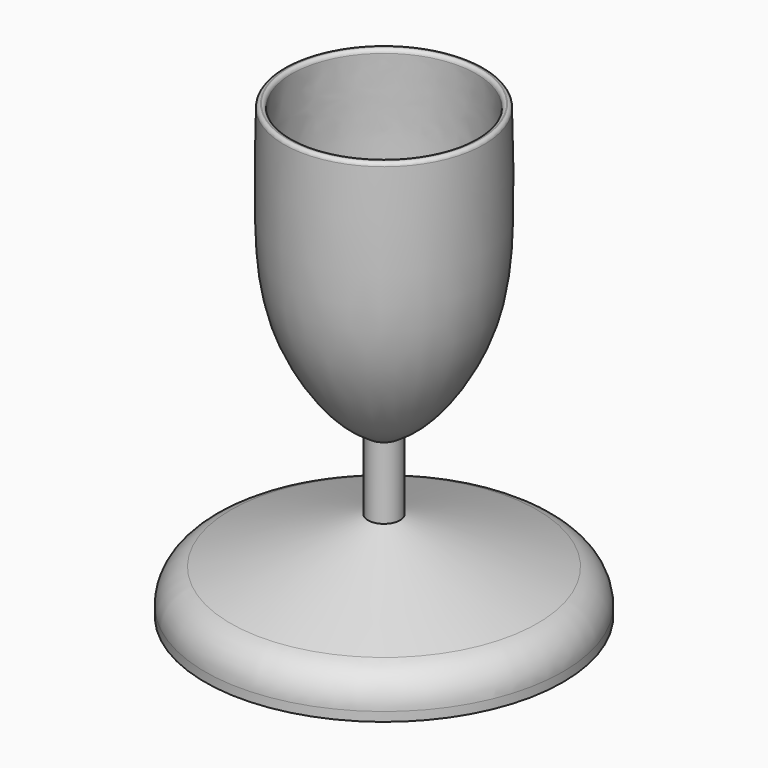
from build123d import *

# Parameters (mm, degrees)
F2_DEPTH = 25
F4_R     = 1


with BuildPart() as f1:
    # F0 (on Front) → F1 (revolve)
    with BuildSketch(Plane.XZ):
        with BuildLine():
            Line((-50, 0), (0, 0))
            Line((0, 0), (0, 25))
            Line((0, 25), (-4.4755004346, 25))
            Line((-4.4755004346, 25), (-42.8734788557, 12.1379563433))
            ThreePointArc((-42.8734788557, 12.1379563433), (-48.0229292829, 8.5289987875), (-50, 2.5596934911))
            Line((-50, 2.5596934911), (-50, 0))
        make_face()
    revolve(axis=Axis((0, 0, 12.5), (0, 0, -1)))

    # F2 (add): a face of the model
    f2_faces = [f1.faces().sort_by_distance(p)[0] for p in [
        (0, 0, 25),
    ]]
    extrude(f2_faces, amount=F2_DEPTH)

    # F0 (on Front) → F3 (revolve)
    with BuildSketch(Plane.XZ):
        with BuildLine():
            Line((-50, 0), (0, 0))
            Line((0, 0), (0, 25))
            Line((0, 25), (-4.4755004346, 25))
            Line((-4.4755004346, 25), (-42.8734788557, 12.1379563433))
            ThreePointArc((-42.8734788557, 12.1379563433), (-48.0229292829, 8.5289987875), (-50, 2.5596934911))
            Line((-50, 2.5596934911), (-50, 0))
        make_face()
        with BuildLine():
            Line((-4.4755004346, 25), (0, 25))
            Line((0, 25), (0, 42.4456484616))
            add(Edge.make_bspline(
                [(0, 42.4456484616), (-1.4919902335, 43.2697997935), (-2.983980467, 44.0939511254), (-4.4755004346, 45.0203647819)],
                knots=[0, 0, 0, 0, 0.0764838264, 0.0764838264, 0.0764838264, 0.0764838264], degree=3))
            Line((-4.4755004346, 45.0203647819), (-4.4755004346, 25))
        make_face()
        with BuildLine():
            add(Edge.make_bspline(
                [(0, 42.4456484616), (-1.4919902335, 43.2697997935), (-2.983980467, 44.0939511254), (-4.4755004346, 45.0203647819)],
                knots=[0, 0, 0, 0, 0.0764838264, 0.0764838264, 0.0764838264, 0.0764838264], degree=3))
            Line((0, 42.4456484616), (0, 44.2533791065))
            add(Edge.make_bspline(
                [(0, 44.2533791065), (-3.1753411774, 46.3355490679), (-10.7692457317, 51.3151084504), (-24.5285032708, 72.4450488124), (-26.4337229746, 97.1435303304), (-25.9696893112, 116.1446855624), (-25.7288739085, 126.0055452585)],
                knots=[0, 0, 0, 0, 0.1873030339, 0.4479396962, 0.7135021985, 1, 1, 1, 1], degree=3))
            Line((-25.7288739085, 126.0055452585), (-27.9250349849, 126.0055452585))
            add(Edge.make_bspline(
                [(-4.4755004346, 45.0203647819), (-6.7752034944, 46.44875754), (-14.153220868, 51.8139576688), (-26.6342026524, 71.7391068983), (-28.6275409804, 97.1608176734), (-28.163822794, 116.2009751254), (-27.9250349849, 126.0055452585)],
                knots=[0.0764838264, 0.0764838264, 0.0764838264, 0.0764838264, 0.1944105677, 0.4550060527, 0.7193599164, 1, 1, 1, 1], degree=3))
        make_face()
    revolve(axis=Axis((0, 0, 12.5), (0, 0, -1)))

    # F4
    f4_edges = [f1.edges().sort_by_distance(p)[0] for p in [
        (27.925035, 0, 126.005545),
        (25.728874, 0, 126.005545),
    ]]
    fillet(f4_edges, radius=F4_R)


solid = f1.part
